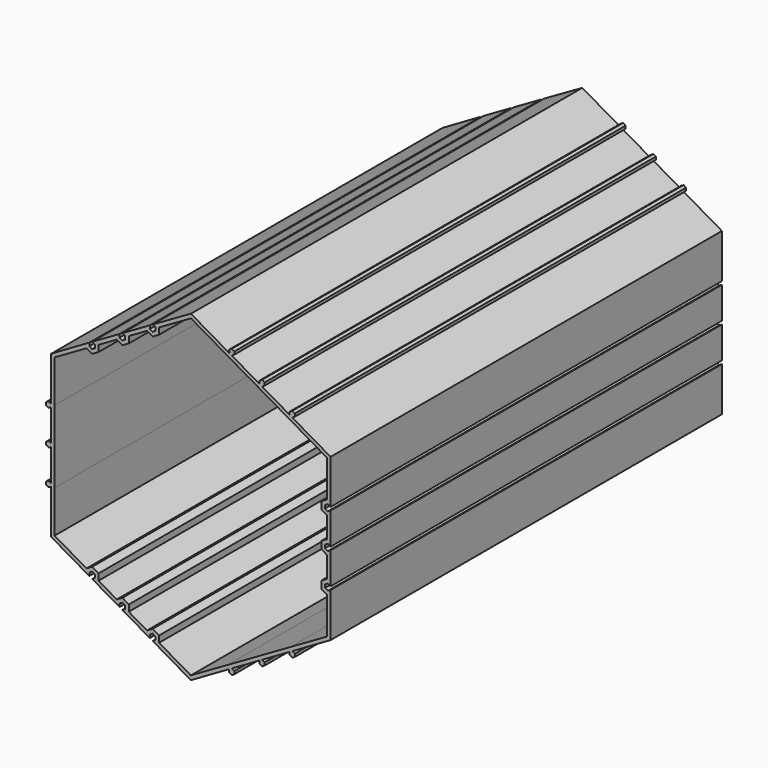
from build123d import *

# Parameters (mm, degrees)
F1_DEPTH = 44.45


with BuildPart() as f1:
    # F0 (on Front) → F1 (new body, symmetric)
    with BuildSketch(Plane.XZ):
        Polygon((12.4714, 22.6569566138), (12.4714, 22.1290275277), (7.429338686, 25.0400629846), (7.886538686, 25.3040275277), (7.886538686, 25.8319566138), (7.429338686, 26.0959211569), (6.972138686, 25.8319566138), (6.984838669, 25.2820305117), (0.0126999831, 29.3073966589), (-6.946738686, 25.3186922245), (-6.438738686, 25.0253982878), (-6.438738686, 24.4388104143), (-6.946738686, 24.1455164775), (-7.454738686, 24.4388104143), (-7.454738686, 25.0253982878), (-12.446, 22.1436922245), (-11.938, 21.8503982878), (-11.938, 21.2638104143), (-12.446, 20.9705164775), (-12.954, 21.2638104143), (-12.954, 21.8503982878), (-17.945261314, 18.9686922245), (-17.437261314, 18.6753982878), (-17.437261314, 18.0888104143), (-17.945261314, 17.7955164775), (-18.453261314, 18.0888104143), (-18.453261314, 18.6753982878), (-25.3873000169, 14.6426998215), (-25.3873000169, 6.5919675272), (-25.8572, 6.8779290861), (-26.3144, 6.6139645431), (-26.3144, 6.0860354569), (-25.8572, 5.8220709139), (-25.4, 6.0860354569), (-25.4, 0.2639645431), (-25.8572, 0.5279290861), (-26.3144, 0.2639645431), (-26.3144, -0.2639645431), (-25.8572, -0.5279290861), (-25.4, -0.2639645431), (-25.4, -6.0860354569), (-25.8572, -5.8220709139), (-26.3144, -6.0860354569), (-26.3144, -6.6139645431), (-25.8572, -6.8779290861), (-25.4, -6.6139645431), (-25.4, -14.6646968374), (-18.453261314, -18.6753982878), (-18.453261314, -18.0888104143), (-17.945261314, -17.7955164775), (-17.437261314, -18.0888104143), (-17.437261314, -18.6753982878), (-17.945261314, -18.9686922245), (-12.954, -21.8503982878), (-12.954, -21.2638104143), (-12.446, -20.9705164775), (-11.938, -21.2638104143), (-11.938, -21.8503982878), (-12.446, -22.1436922245), (-7.454738686, -25.0253982878), (-7.454738686, -24.4388104143), (-6.946738686, -24.1455164775), (-6.438738686, -24.4388104143), (-6.438738686, -25.0253982878), (-6.946738686, -25.3186922245), (0, -29.3293936748), (6.972138686, -25.3040275277), (6.972138686, -25.8319566138), (7.429338686, -26.0959211569), (7.886538686, -25.8319566138), (7.886538686, -25.3040275277), (7.429338686, -25.0400629846), (12.4714, -22.1290275277), (12.4714, -22.6569566138), (12.9286, -22.9209211569), (13.3858, -22.6569566138), (13.3858, -22.1290275277), (12.9286, -21.8650629846), (17.970661314, -18.9540275277), (17.970661314, -19.4819566138), (18.427861314, -19.7459211569), (18.885061314, -19.4819566138), (18.885061314, -18.9540275277), (18.427861314, -18.6900629846), (25.4, -14.6646968374), (25.4, -6.6432939367), (24.892, -6.9365878735), (24.384, -6.6432939367), (24.384, -6.0567060633), (24.892, -5.7634121265), (25.4, -6.0567060633), (25.4, -0.2932939367), (24.892, -0.5865878735), (24.384, -0.2932939367), (24.384, 0.2932939367), (24.892, 0.5865878735), (25.4, 0.2932939367), (25.4, 6.0567060633), (24.892, 5.7634121265), (24.384, 6.0567060633), (24.384, 6.6432939367), (24.892, 6.9365878735), (25.4, 6.6432939367), (25.4, 14.6646968374), (18.427861314, 18.6900629846), (18.885061314, 18.9540275277), (18.885061314, 19.4819566138), (18.427861314, 19.7459211569), (17.970661314, 19.4819566138), (17.970661314, 18.9540275277), (12.9286, 21.8650629846), (13.3858, 22.1290275277), (13.3858, 22.6569566138), (12.9286, 22.9209211569), align=None)
        Polygon((-6.946738686, 23.3829522811), (-5.7783387198, 24.057528316), (-5.7783387198, 25.230704063), (0.0126999831, 28.574161817), (6.667338669, 24.7321043803), (18.110361314, 18.1401368532), (24.7396000339, 14.3127440938), (24.7396000339, 7.6111639085), (23.7236000339, 7.024576035), (23.7236000339, 5.675423965), (24.7396000339, 5.0888360915), (24.7396000339, 1.2611639085), (23.7236000339, 0.674576035), (23.7236000339, -0.674576035), (24.7396000339, -1.2611639085), (24.7396000339, -5.0888360915), (23.7236000339, -5.675423965), (23.7236000339, -7.024576035), (24.7396000339, -7.6111639085), (24.7396000339, -14.3127440938), (18.110361314, -18.1401368532), (6.667338669, -24.7321043803), (0, -28.5668294784), (-5.7783387198, -25.230704063), (-5.7783387198, -24.057528316), (-6.946738686, -23.3829522811), (-7.962738686, -23.9695401546), (-11.2776000339, -22.055704063), (-11.2776000339, -20.882528316), (-12.446, -20.2079522811), (-13.462, -20.7945401546), (-16.7768613479, -18.880704063), (-16.7768613479, -17.707528316), (-17.945261314, -17.0329522811), (-18.961261314, -17.6195401546), (-24.765, -14.2687500619), (-24.765, -6.6139645431), (-24.7523000169, 6.5919675272), (-24.7523000169, 14.2760824006), (-18.961261314, 17.6195401546), (-17.945261314, 17.0329522811), (-16.7768613479, 17.707528316), (-16.7768613479, 18.880704063), (-13.462, 20.7945401546), (-12.446, 20.2079522811), (-11.2776000339, 20.882528316), (-11.2776000339, 22.055704063), (-7.962738686, 23.9695401546), align=None, mode=Mode.SUBTRACT)
    extrude(amount=F1_DEPTH, both=True)


solid = f1.part
